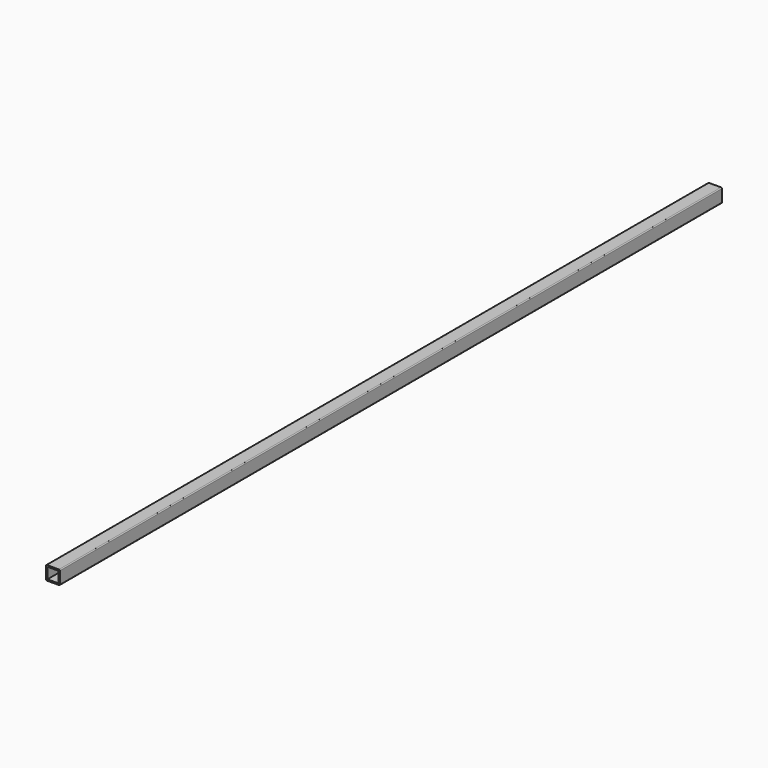
from build123d import *

# Parameters (mm, degrees)
F0_W     = 40.64
F0_H     = 40.64
F1_DEPTH = 3048


with BuildPart() as f1:
    # F0 (on Front) → F1 (new body)
    with BuildSketch(Plane.XZ):
        with BuildLine():
            ThreePointArc((25.4, 22.225), (24.470064, 24.470064), (22.225, 25.4))
            Line((22.225, 25.4), (-22.225, 25.4))
            ThreePointArc((-22.225, 25.4), (-24.470064, 24.470064), (-25.4, 22.225))
            Line((-25.4, 22.225), (-25.4, -22.225))
            ThreePointArc((-25.4, -22.225), (-24.470064, -24.470064), (-22.225, -25.4))
            Line((-22.225, -25.4), (22.225, -25.4))
            ThreePointArc((22.225, -25.4), (24.470064, -24.470064), (25.4, -22.225))
            Line((25.4, -22.225), (25.4, 22.225))
        make_face()
        Rectangle(F0_W, F0_H, mode=Mode.SUBTRACT)
    extrude(amount=-F1_DEPTH)


solid = f1.part
